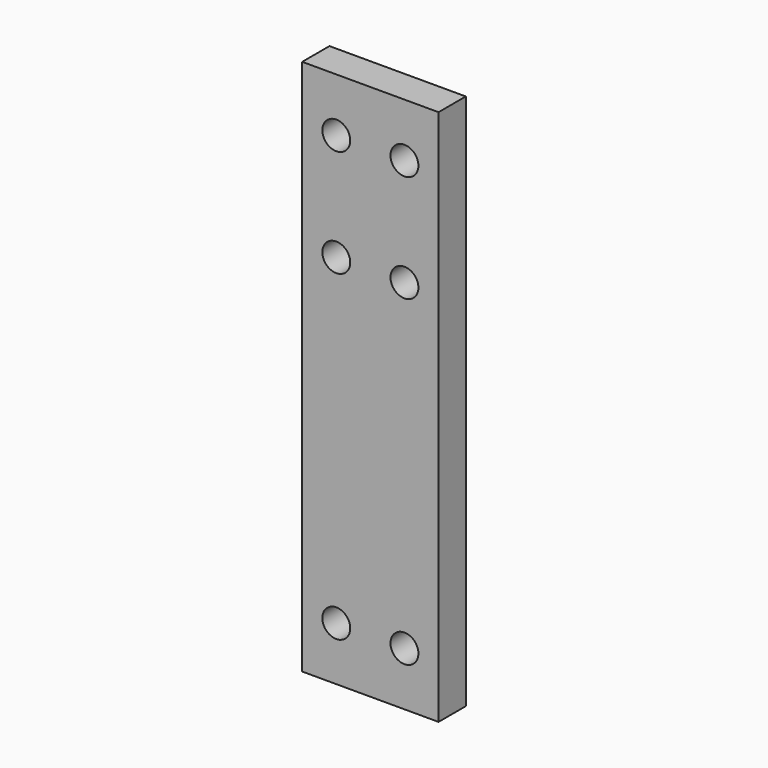
from build123d import *

# Parameters (mm, degrees)
F0_W     = 25.4
F0_H     = 100
F0_R     = 2.6
F1_DEPTH = 6.35


with BuildPart() as f1:
    # F0 (on Front) → F1 (new body)
    with BuildSketch(Plane.XZ):
        Rectangle(F0_W, F0_H)
        with Locations((-6.35, -40)):
            Circle(F0_R, mode=Mode.SUBTRACT)
        with Locations((6.35, -40)):
            Circle(F0_R, mode=Mode.SUBTRACT)
        with Locations((-6.35, 20)):
            Circle(F0_R, mode=Mode.SUBTRACT)
        with Locations((-6.35, 40)):
            Circle(F0_R, mode=Mode.SUBTRACT)
        with Locations((6.35, 20)):
            Circle(F0_R, mode=Mode.SUBTRACT)
        with Locations((6.35, 40)):
            Circle(F0_R, mode=Mode.SUBTRACT)
    extrude(amount=F1_DEPTH)


solid = f1.part
